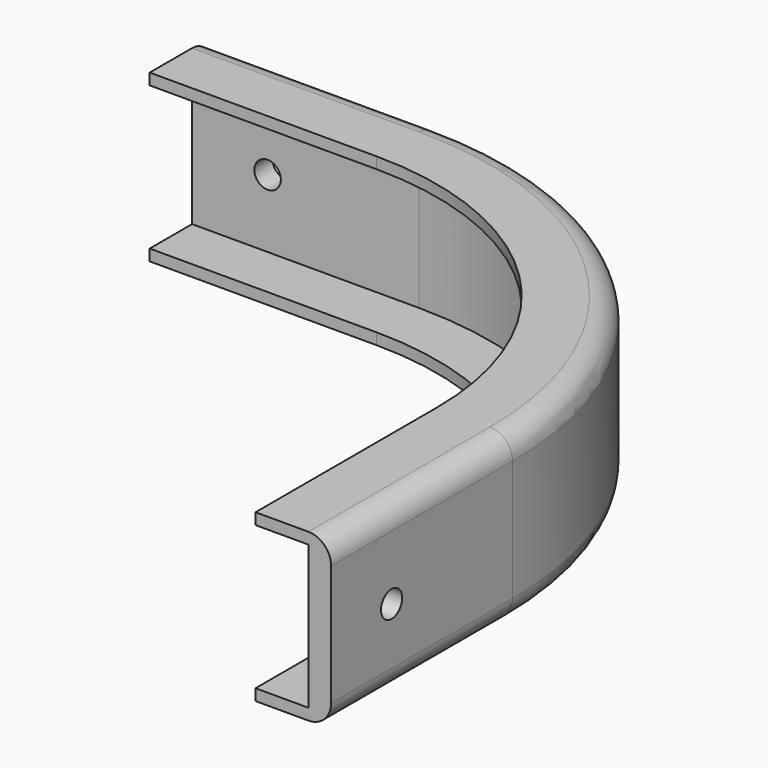
from build123d import *

# Parameters (mm, degrees)
F3_R     = 1.75
F4_DEPTH = 3
F5_R     = 1.75
F6_DEPTH = 3


with BuildPart() as f2:
    # F2: sweep along a path in F1
    with BuildLine(Plane.XY) as f2_path:
        Line((0, -5.9156941882), (30, -5.9156941882))
        ThreePointArc((30, -5.9156941882), (58.2842712475, -17.6314229407), (70, -45.9156941882))
        Line((70, -45.9156941882), (70, -75.9156941882))
    # F0 (on Right) → F2 (sweep)
    with BuildSketch(Plane.YZ):
        with BuildLine():
            Line((-5.9156941882, 10), (1.0843058118, 10))
            Line((1.0843058118, 10), (1.0843058118, -9))
            Line((1.0843058118, -9), (-5.9156941882, -9))
            Line((-5.9156941882, -9), (-5.9156941882, -10.5))
            Line((-5.9156941882, -10.5), (1.0843058118, -10.5))
            ThreePointArc((1.0843058118, -10.5), (3.2056261554, -9.6213203436), (4.0843058118, -7.5))
            Line((4.0843058118, -7.5), (4.0843058118, 8.5))
            ThreePointArc((4.0843058118, 8.5), (3.2056261554, 10.6213203436), (1.0843058118, 11.5))
            Line((1.0843058118, 11.5), (-5.9156941882, 11.5))
            Line((-5.9156941882, 11.5), (-5.9156941882, 10))
        make_face()
    sweep(path=f2_path.line)

    # F3 (on face) → F4 (cut, through all)
    with BuildSketch(Plane.YZ.offset(80)):
        with Locations((-65.9156941882, 0)):
            Circle(F3_R)
    extrude(amount=-F4_DEPTH, mode=Mode.SUBTRACT)

    # F5 (on face) → F6 (cut, through all)
    with BuildSketch(Plane(origin=(0, 4.0843058118, 0), x_dir=(-1, 0, 0), z_dir=(0, 1, 0))):
        with Locations((-10, 0)):
            Circle(F5_R)
    extrude(amount=-F6_DEPTH, mode=Mode.SUBTRACT)


solid = f2.part
